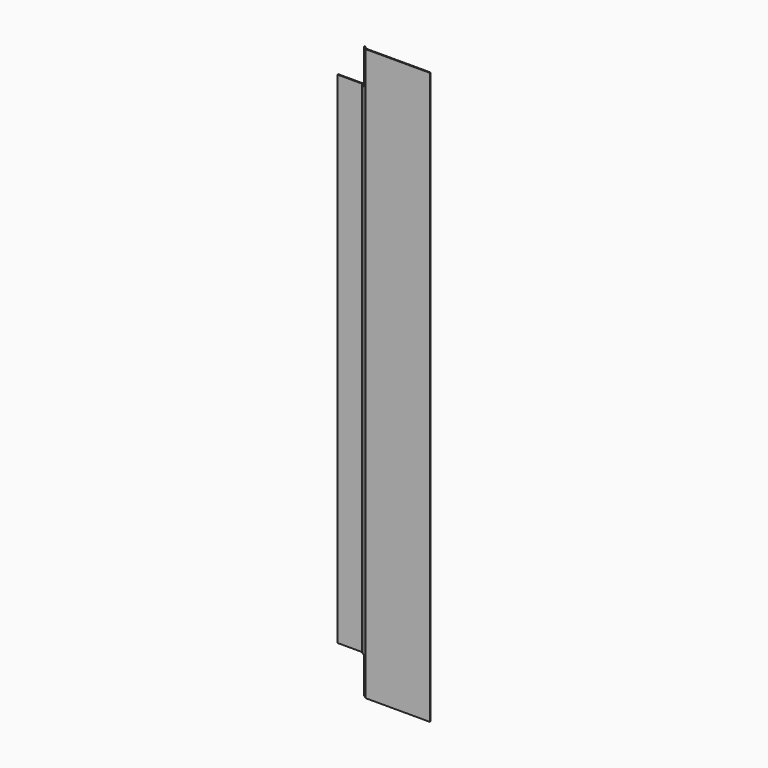
from build123d import *

# Parameters (mm, degrees)
F1_DEPTH = 2414
F3_DEPTH = 29.001


with BuildPart() as f1:
    # F0 (on Top) → F1 (new body)
    with BuildSketch(Plane.XY):
        Polygon((0, 4), (0, 0), (103.747326, 0), (139.747326, -25), (411, -25), (411, -21), (141, -21), (105, 4), align=None)
    extrude(amount=F1_DEPTH)

    # F2 (on face) → F3 (cut, through all)
    with BuildSketch(Plane.XZ.offset(25)):
        Polygon((103.747326, 2414), (0, 2414), (0, 2264), (124, 2264), (124, 2414), align=None)
        Polygon((103.747326, 0), (124, 0), (124, 150), (0, 150), (0, 0), align=None)
    extrude(amount=-F3_DEPTH, mode=Mode.SUBTRACT)


solid = f1.part
